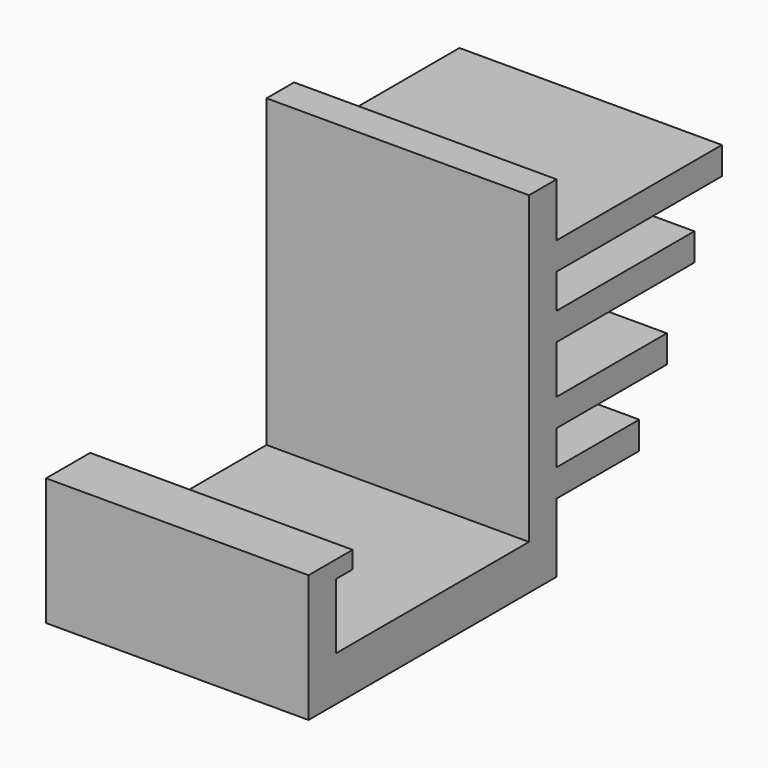
from build123d import *

# Parameters (mm, degrees)
F0_W     = 15
F0_H     = 4
F0_W_2   = 5
F0_H_2   = 9.500002
F0_W_3   = 20
F0_W_4   = 30
F0_W_5   = 25
F1_DEPTH = 38.1


with BuildPart() as f1:
    # F0 (on Right) → F1 (new body)
    with BuildSketch(Plane.YZ):
        Polygon((0, 6.499998), (0, 0), (5, 0), (5, 10), (5, 14), (5, 19), (5, 23), (5, 30), (5, 34), (5, 39), (5, 43), (5, 50.8), (0, 50.8), align=None)
        Polygon((-40, 0), (0, 0), (0, 6.499998), (-35, 6.499998), (-40, 6.499998), align=None)
        with Locations((12.5, 12)):
            Rectangle(F0_W, F0_H)
        with Locations((-37.5, 11.249999)):
            Rectangle(F0_W_2, F0_H_2)
        Polygon((-40, 16), (-35, 16), (-32, 16), (-32, 18.5), (-40, 18.5), align=None)
        with Locations((15, 21)):
            Rectangle(F0_W_3, F0_H)
        with Locations((20, 41)):
            Rectangle(F0_W_4, F0_H)
        with Locations((17.5, 32)):
            Rectangle(F0_W_5, F0_H)
    extrude(amount=F1_DEPTH)


solid = f1.part
